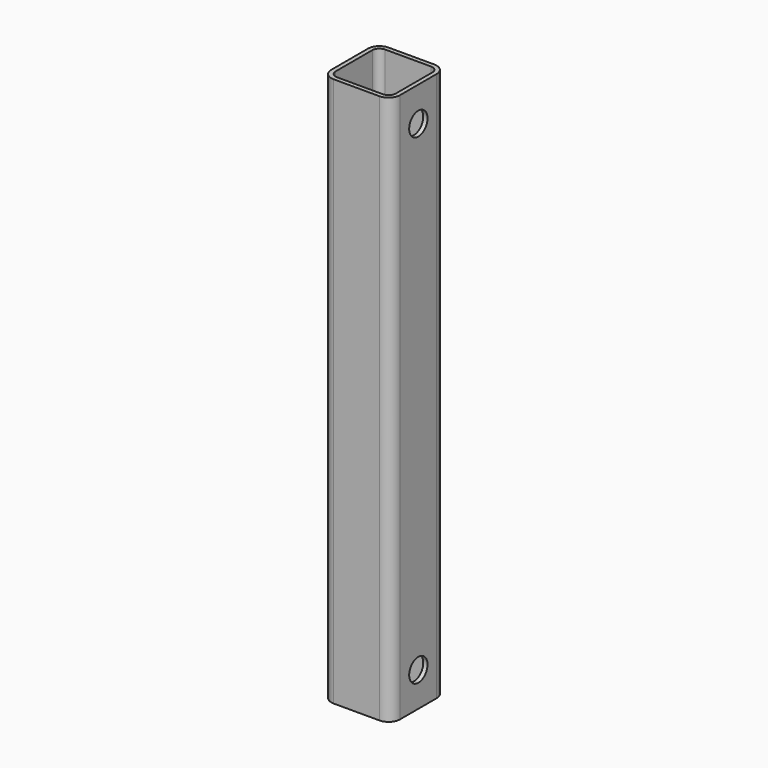
from build123d import *

# Parameters (mm, degrees)
F1_DEPTH = 609.6
F3_D     = 25.4


with BuildPart() as f1:
    # F0 (on Top) → F1 (new body)
    with BuildSketch(Plane.XY):
        with BuildLine():
            ThreePointArc((38.1, 25.4), (34.380256, 34.380256), (25.4, 38.1))
            Line((25.4, 38.1), (-25.4, 38.1))
            ThreePointArc((-25.4, 38.1), (-34.380256, 34.380256), (-38.1, 25.4))
            Line((-38.1, 25.4), (-38.1, -25.4))
            ThreePointArc((-38.1, -25.4), (-34.380256, -34.380256), (-25.4, -38.1))
            Line((-25.4, -38.1), (25.4, -38.1))
            ThreePointArc((25.4, -38.1), (34.380256, -34.380256), (38.1, -25.4))
            Line((38.1, -25.4), (38.1, 25.4))
        make_face()
        with BuildLine():
            ThreePointArc((25.4, 33.3375), (31.01266, 31.01266), (33.3375, 25.4))
            Line((33.3375, 25.4), (33.3375, -25.4))
            ThreePointArc((33.3375, -25.4), (31.01266, -31.01266), (25.4, -33.3375))
            Line((25.4, -33.3375), (-25.4, -33.3375))
            ThreePointArc((-25.4, -33.3375), (-31.01266, -31.01266), (-33.3375, -25.4))
            Line((-33.3375, -25.4), (-33.3375, 25.4))
            ThreePointArc((-33.3375, 25.4), (-31.01266, 31.01266), (-25.4, 33.3375))
            Line((-25.4, 33.3375), (25.4, 33.3375))
        make_face(mode=Mode.SUBTRACT)
    extrude(amount=F1_DEPTH)

    # F3 (through all)
    with Locations(Plane.YZ.offset(38.1)):
        with Locations((0, 571.5), (0, 38.1)):
            Hole(F3_D / 2)


solid = f1.part
